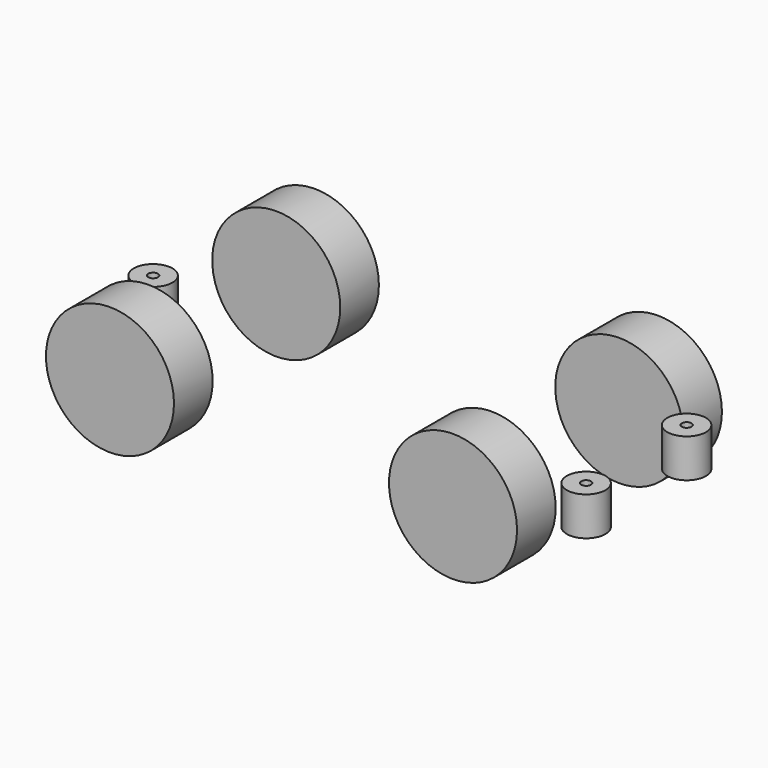
from build123d import *

# Parameters (mm, degrees)
F0_R     = 4
F0_R_2   = 1
F1_DEPTH = 8
F3_R     = 13.245
F4_DEPTH = 10


with BuildPart() as f1:
    # F0 (on Top) → F1 (new body)
    with BuildSketch(Plane.XY):
        with Locations((-78.502798, 0)):
            Circle(F0_R)
        with Locations((-78.502798, 0)):
            Circle(F0_R_2, mode=Mode.SUBTRACT)
        with Locations((21.497202, 13)):
            Circle(F0_R)
        with Locations((21.497202, 13)):
            Circle(F0_R_2, mode=Mode.SUBTRACT)
        with Locations((21.497202, -13)):
            Circle(F0_R)
        with Locations((21.497202, -13)):
            Circle(F0_R_2, mode=Mode.SUBTRACT)
    extrude(amount=F1_DEPTH)


with BuildPart() as f4:
    # F3 (on offset) → F4 (new body)
    with BuildSketch(Plane.XZ.offset(26.5)):
        with Locations((-66.232798, 3.765)):
            Circle(F3_R)
        with Locations((4.747202, 3.765)):
            Circle(F3_R)
    extrude(amount=-F4_DEPTH)


with BuildPart() as f5_1:
    # F5: instance of F4
    add(f4.part.mirror(Plane.XZ))


solid = Compound([f1.part, f4.part, f5_1.part])
